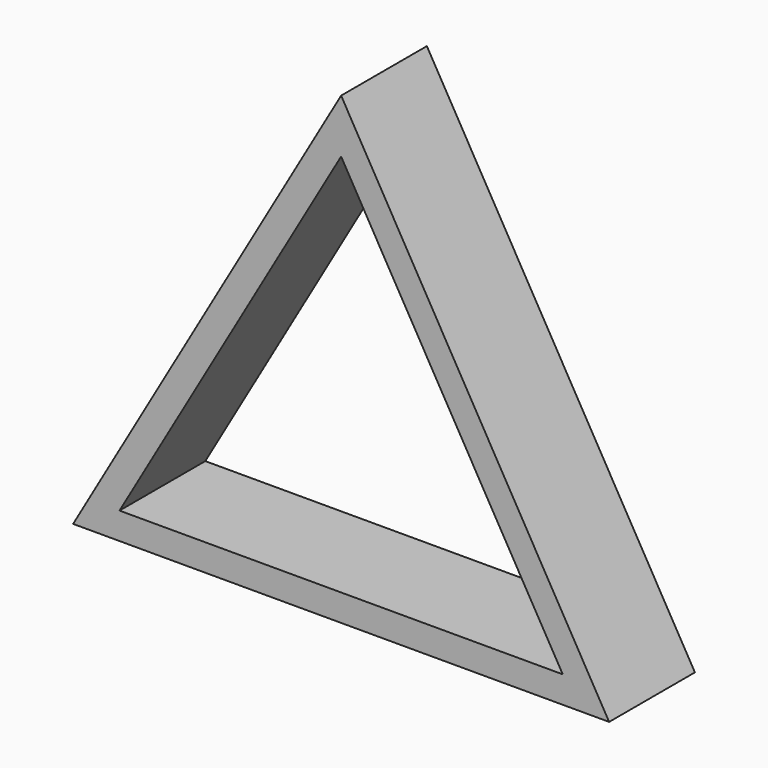
from build123d import *

# Parameters (mm, degrees)
F1_DEPTH = 400


with BuildPart() as f1:
    # F0 (on Front) → F1 (new body)
    with BuildSketch(Plane.XZ):
        Polygon((-99.569657, -448.701831), (-272.774738, -548.701831), (1727.225262, -548.701831), (1554.020181, -448.701831), align=None)
        Polygon((727.225262, 1183.348976), (-272.774738, -548.701831), (-99.569657, -448.701831), (727.225262, 983.348976), align=None)
        Polygon((1554.020181, -448.701831), (1727.225262, -548.701831), (727.225262, 1183.348976), (727.225262, 983.348976), align=None)
    extrude(amount=F1_DEPTH)


solid = f1.part
